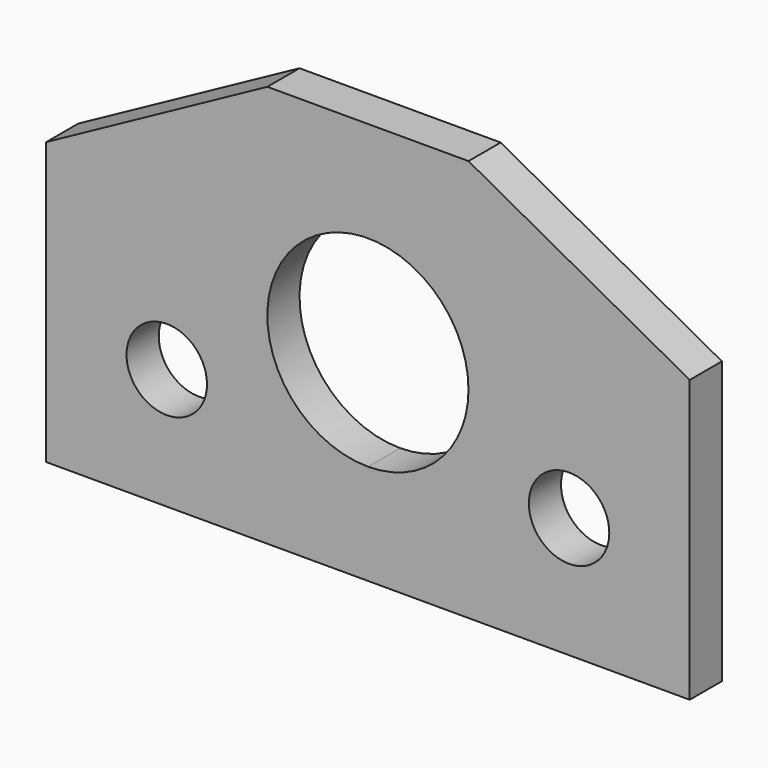
from build123d import *

# Parameters (mm, degrees)
F0_R     = 6.35
F1_DEPTH = 6.35


with BuildPart() as f1:
    # F0 (on Front) → F1 (new body)
    with BuildSketch(Plane.XZ):
        with BuildLine():
            ThreePointArc((66.675, 31.75), (39.57468, 42.97532), (50.8, 15.875))
            ThreePointArc((50.8, 15.875), (62.02532, 20.52468), (66.675, 31.75))
        make_face()
        Polygon((0, 19.05), (0, 0), (19.05, 0), (50.8, 0), (101.6, 0), (101.6, 44.45), (66.675, 63.5), (50.8, 63.5), (34.925, 63.5), (0, 44.45), align=None)
        with Locations((19.05, 19.05)):
            Circle(F0_R, mode=Mode.SUBTRACT)
        with Locations((82.55, 19.05)):
            Circle(F0_R, mode=Mode.SUBTRACT)
        with BuildLine():
            ThreePointArc((66.675, 31.75), (62.02532, 20.52468), (50.8, 15.875))
            ThreePointArc((50.8, 15.875), (39.57468, 42.97532), (66.675, 31.75))
        make_face(mode=Mode.SUBTRACT)
    extrude(amount=F1_DEPTH)


solid = f1.part
